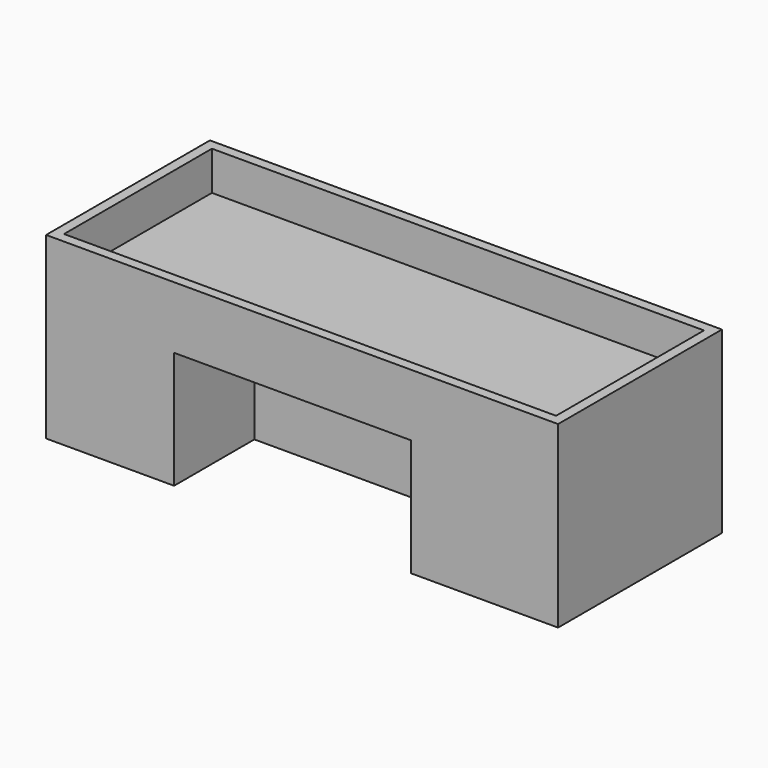
from build123d import *

# Parameters (mm, degrees)
F1_DEPTH = 700
F2_W     = 924.519062
F2_H     = 457.303435
F3_DEPTH = 392
F4_W     = 1921.999932
F4_H     = 721.999932
F5_DEPTH = 152


with BuildPart() as f1:
    # F0 (on Top) → F1 (new body)
    with BuildSketch(Plane.XY):
        Polygon((-500, -250), (0, -250), (1500, -250), (1500, 0), (1500, 550), (-500, 550), align=None)
    extrude(amount=F1_DEPTH)

    # F2 (on face) → F3 (cut)
    with BuildSketch(Plane.XZ.offset(250)):
        with Locations((462.259531, 228.651717)):
            Rectangle(F2_W, F2_H)
    extrude(amount=-F3_DEPTH, mode=Mode.SUBTRACT)

    # F4 (on face) → F5 (cut)
    with BuildSketch(Plane.XY.offset(700)):
        with Locations((500, 150)):
            Rectangle(F4_W, F4_H)
    extrude(amount=-F5_DEPTH, mode=Mode.SUBTRACT)


solid = f1.part
